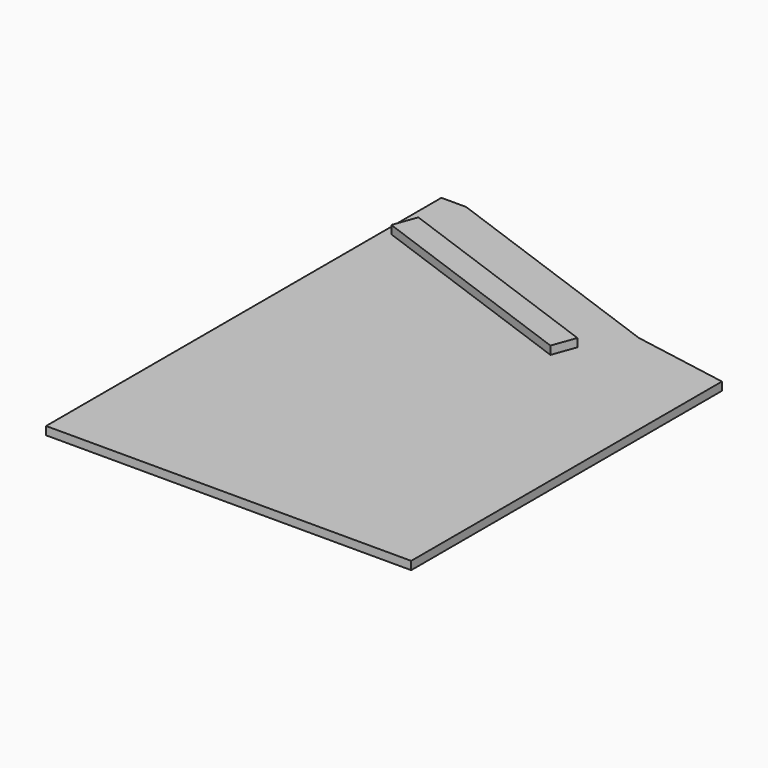
from build123d import *

# Parameters (mm, degrees)
F1_DEPTH = 12.7
F3_DEPTH = 12.7
F5_DEPTH = 12.7


with BuildPart() as f1:
    # F0 (on Top) → F1 (new body)
    with BuildSketch(Plane.XY):
        Polygon((0, 762), (0, 0), (563.033164, 0), (563.033164, 598.91676), (413.93744, 625.206359), (38.1, 762), align=None)
    extrude(amount=F1_DEPTH)

    # F2 (on face) → F3 (join)
    with BuildSketch(Plane.XY.offset(12.7)):
        Polygon((371.488792, 559.833981), (25.4, 685.8), (12.369033, 649.997711), (358.457825, 524.031692), align=None)
    extrude(amount=F3_DEPTH)

    # F4 (on face) → F5 (join)
    with BuildSketch(Plane(origin=(0, 0, 0), x_dir=(1, 0, 0), z_dir=(0, 0, -1))):
        Polygon((12.369033, -649.997711), (25.4, -685.8), (371.488792, -559.833981), (358.457825, -524.031692), align=None)
    extrude(amount=F5_DEPTH)


solid = f1.part
